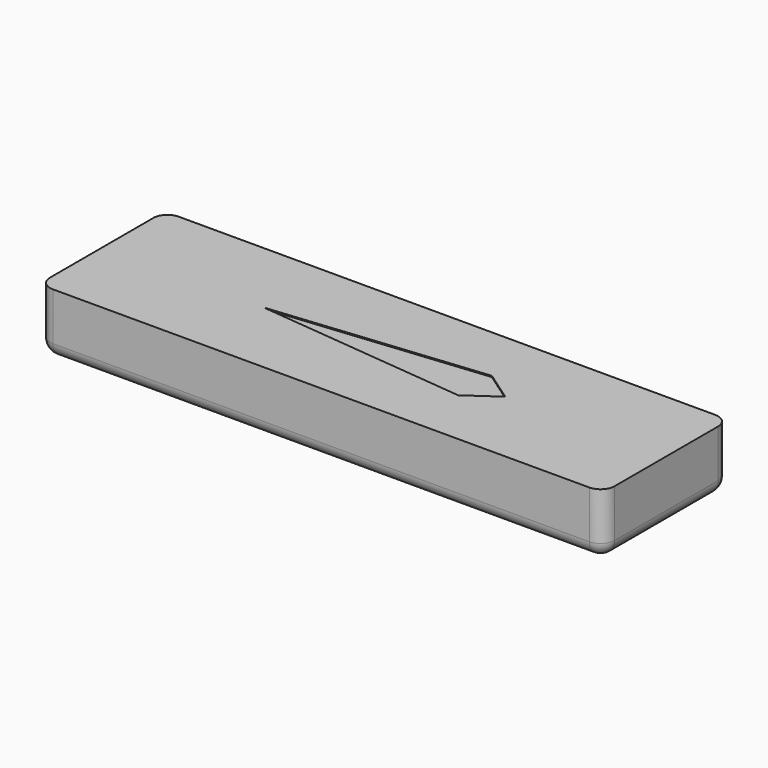
from build123d import *

# Parameters (mm, degrees)
F0_W     = 201
F0_H     = 56
F1_DEPTH = 22
F2_R     = 5
F3_DEPTH = 21.6


with BuildPart() as f1:
    # F0 (on Top) → F1 (new body)
    with BuildSketch(Plane.XY):
        with Locations((34.910782, -1.85752)):
            Rectangle(F0_W, F0_H)
        Polygon((67.267462, -9.29118), (-7.982538, -1.79118), (67.267462, 5.70882), (78.017462, -1.79118), align=None, mode=Mode.SUBTRACT)
    extrude(amount=F1_DEPTH)

    # F2
    f2_edges = [f1.edges().sort_by_distance(p)[0] for p in [
        (34.910782, 26.14248, 0),
        (-65.589218, -1.85752, 0),
        (34.910782, -29.85752, 0),
        (135.410782, -1.85752, 0),
        (135.410782, 26.14248, 11),
        (-65.589218, 26.14248, 11),
        (-65.589218, -29.85752, 11),
        (135.410782, -29.85752, 11),
    ]]
    fillet(f2_edges, radius=F2_R)

    # F0 (on Top) → F3 (join)
    with BuildSketch(Plane.XY):
        Polygon((67.267462, 5.70882), (-7.982538, -1.79118), (67.267462, -9.29118), (78.017462, -1.79118), align=None)
    extrude(amount=F3_DEPTH)


solid = f1.part
